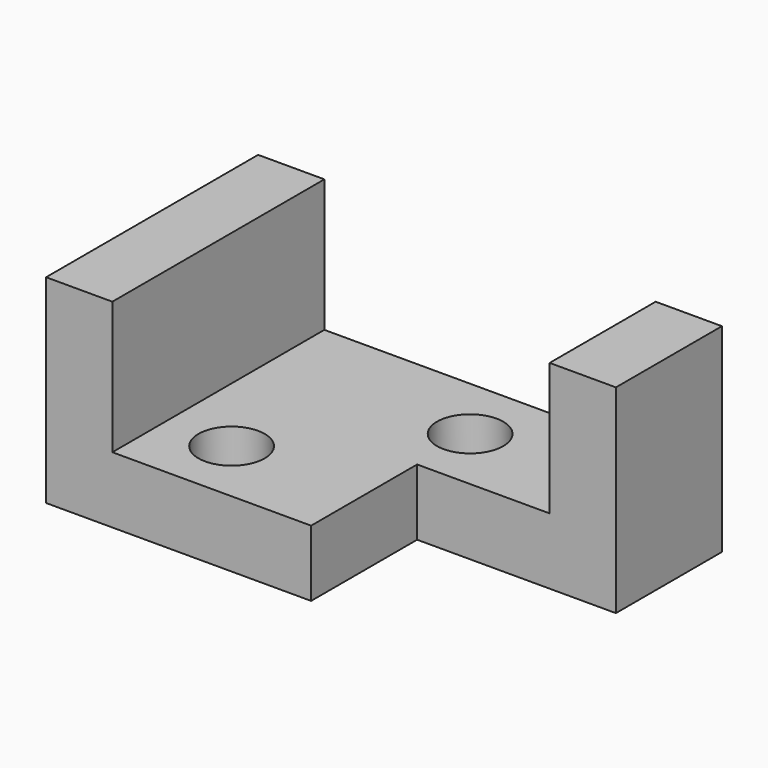
from build123d import *

# Parameters (mm, degrees)
F1_DEPTH = 50.8
F2_W     = 25.4
F2_H     = 25.4
F3_DEPTH = 12.701
F4_W     = 12.7
F4_H     = 25.4
F5_DEPTH = 38.101
F6_R     = 6.35
F7_DEPTH = 12.701
F8_R     = 6.35
F9_DEPTH = 12.701


with BuildPart() as f1:
    # F0 (on Front) → F1 (new body)
    with BuildSketch(Plane.XZ):
        Polygon((-31.75, 19.05), (-44.45, 19.05), (-44.45, -19.05), (44.45, -19.05), (44.45, 19.05), (31.75, 19.05), (31.75, -6.35), (-31.75, -6.35), align=None)
    extrude(amount=F1_DEPTH)

    # F2 (on face) → F3 (cut, through all)
    with BuildSketch(Plane.XY.offset(-6.35)):
        with Locations((19.05, -38.1)):
            Rectangle(F2_W, F2_H)
    extrude(amount=-F3_DEPTH, mode=Mode.SUBTRACT)

    # F4 (on face) → F5 (cut, through all)
    with BuildSketch(Plane.XY.offset(19.05)):
        with Locations((38.1, -38.1)):
            Rectangle(F4_W, F4_H)
    extrude(amount=-F5_DEPTH, mode=Mode.SUBTRACT)

    # F6 (on face) → F7 (cut, through all)
    with BuildSketch(Plane.XY.offset(-6.35)):
        with Locations((6.35, -12.7)):
            Circle(F6_R)
    extrude(amount=-F7_DEPTH, mode=Mode.SUBTRACT)

    # F8 (on face) → F9 (cut, through all)
    with BuildSketch(Plane.XY.offset(-6.35)):
        with Locations((-19.05, -38.1)):
            Circle(F8_R)
    extrude(amount=-F9_DEPTH, mode=Mode.SUBTRACT)


solid = f1.part
